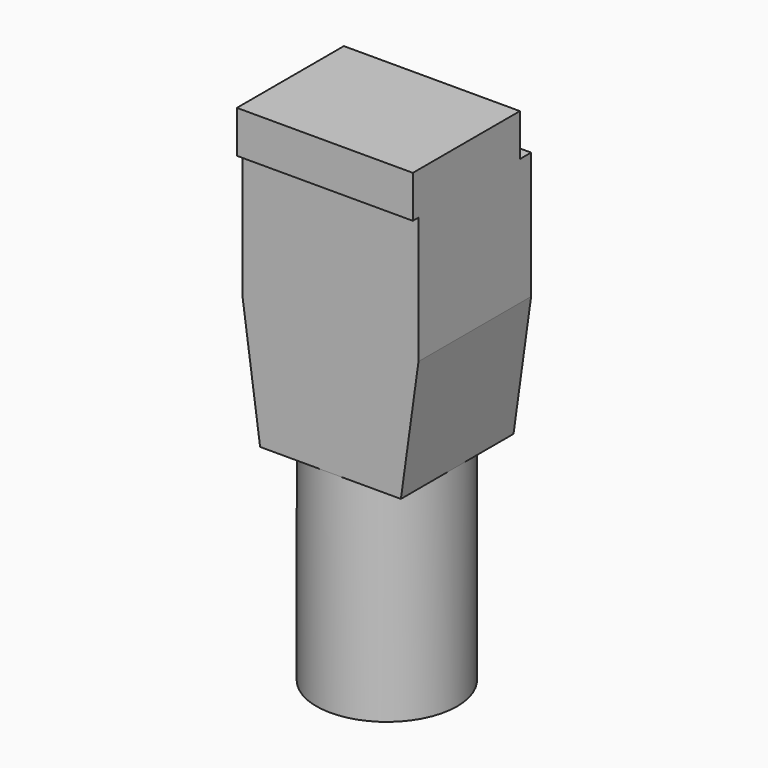
from build123d import *

# Parameters (mm, degrees)
F0_W     = 5
F0_H     = 15
F2_R     = 3
F2_R_2   = 1.25
F3_DEPTH = 5
F5_DEPTH = 5
F6_W     = 12.5
F6_H     = 10
F7_DEPTH = 9
F8_W     = 12.5
F8_H     = 9.5
F9_DEPTH = 3


with BuildPart() as f1:
    # F0 (on Front) → F1 (revolve)
    with BuildSketch(Plane.XZ):
        with Locations((2.5, 7.5)):
            Rectangle(F0_W, F0_H)
    revolve(axis=Axis((0, 0, 7.5), (0, 0, 1)))

    # F2 (on face) → F3 (cut)
    with BuildSketch(Plane(origin=(0, 0, 0), x_dir=(1, 0, 0), z_dir=(0, 0, -1))):
        Circle(F2_R)
        Circle(F2_R_2, mode=Mode.SUBTRACT)
    extrude(amount=-F3_DEPTH, mode=Mode.SUBTRACT)

    # F4 (on Front) → F5 (join, symmetric)
    with BuildSketch(Plane.XZ):
        Polygon((-6.25, 24), (-5, 15), (5, 15), (6.25, 24), align=None)
    extrude(amount=F5_DEPTH, both=True)

    # F6 (on face) → F7 (join)
    with BuildSketch(Plane.XY.offset(24)):
        Rectangle(F6_W, F6_H)
    extrude(amount=F7_DEPTH)

    # F8 (on face) → F9 (join)
    with BuildSketch(Plane.XY.offset(33)):
        with Locations((0, -0.75)):
            Rectangle(F8_W, F8_H)
    extrude(amount=F9_DEPTH)


solid = f1.part
